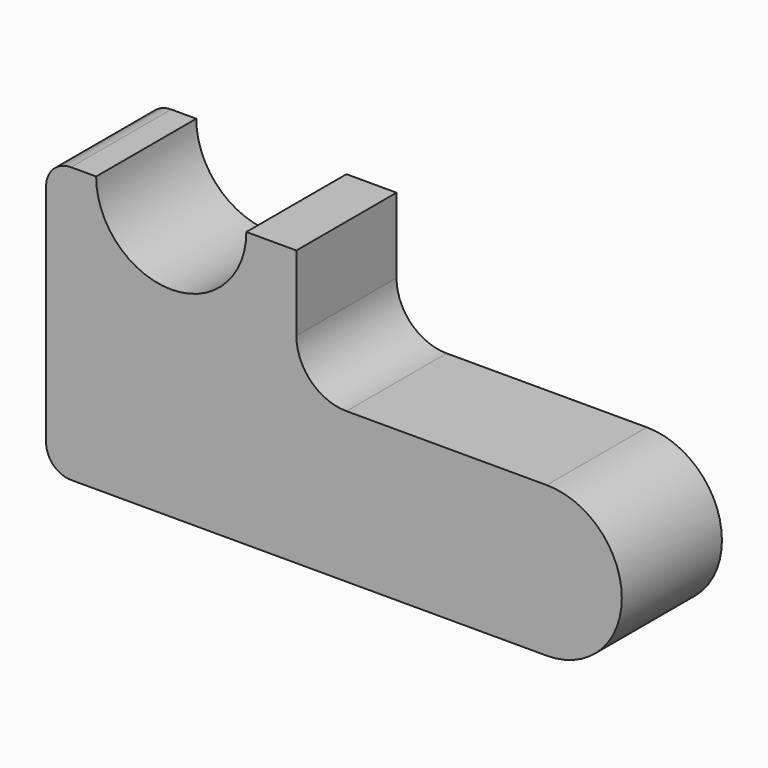
from build123d import *

# Parameters (mm, degrees)
F1_DEPTH = 25


with BuildPart() as f1:
    # F0 (on Front) → F1 (new body)
    with BuildSketch(Plane.XZ):
        with BuildLine():
            ThreePointArc((-42.592177, 32.152407), (-46.127711, 30.687941), (-47.592177, 27.152407))
            Line((-47.592177, 27.152407), (-47.592177, -17.847593))
            ThreePointArc((-47.592177, -17.847593), (-46.127711, -21.383127), (-42.592177, -22.847593))
            Line((-42.592177, -22.847593), (52.407823, -22.847593))
            ThreePointArc((52.407823, -22.847593), (67.407823, -7.847593), (52.407823, 7.152407))
            Line((52.407823, 7.152407), (12.407823, 7.152407))
            ThreePointArc((12.407823, 7.152407), (5.336755, 10.081339), (2.407823, 17.152407))
            Line((2.407823, 17.152407), (2.407823, 32.152407))
            Line((2.407823, 32.152407), (-7.592177, 32.152407))
            ThreePointArc((-7.592177, 32.152407), (-22.592177, 17.152407), (-37.592177, 32.152407))
            Line((-37.592177, 32.152407), (-42.592177, 32.152407))
        make_face()
    extrude(amount=F1_DEPTH)


solid = f1.part
